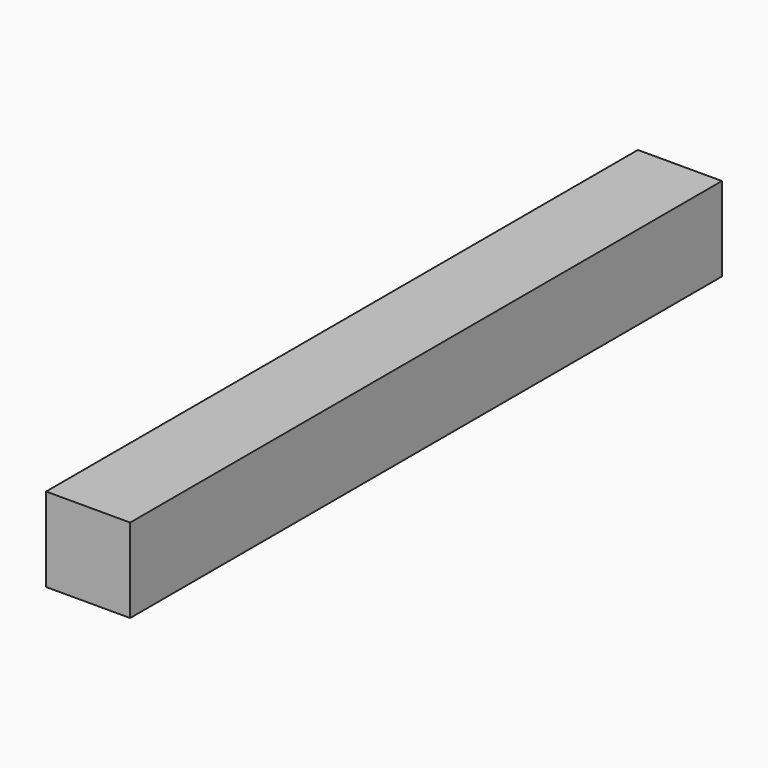
from build123d import *

# Parameters (mm, degrees)
F0_W      = 63.5
F0_H      = 63.5
F1_DEPTH  = 1498.6
F2_DEPTH  = 1092.2
F3_DEPTH  = 203.2
F4_DEPTH  = 177.8
F5_DEPTH  = 279.4
F6_DEPTH  = 254
F7_DEPTH  = 25.4
F8_DEPTH  = 12.7
F9_DEPTH  = 12.7
F10_DEPTH = 12.7
F11_DEPTH = 38.1


with BuildPart() as f1:
    # F0 (on Front) → F1 (new body)
    with BuildSketch(Plane.XZ):
        with Locations((-132.8186606169, 36.3734573238)):
            Rectangle(F0_W, F0_H)
    extrude(amount=F1_DEPTH)

    # F2 (cut): a face of the model
    f2_faces = [f1.faces().sort_by_distance(p)[0] for p in [
        (-132.8186606169, 0, 36.3734573238),
    ]]
    extrude(f2_faces, amount=-F2_DEPTH, mode=Mode.SUBTRACT)

    # F3 (cut): a face of the model
    f3_faces = [f1.faces().sort_by_distance(p)[0] for p in [
        (-132.8186606169, -1092.2, 36.3734573238),
    ]]
    extrude(f3_faces, amount=-F3_DEPTH, mode=Mode.SUBTRACT)

    # F4 (cut): a face of the model
    f4_faces = [f1.faces().sort_by_distance(p)[0] for p in [
        (-132.8186606169, -1498.6, 36.3734573238),
    ]]
    extrude(f4_faces, amount=-F4_DEPTH, mode=Mode.SUBTRACT)

    # F5 (add): a face of the model
    f5_faces = [f1.faces().sort_by_distance(p)[0] for p in [
        (-132.8186606169, -1295.4, 36.3734573238),
    ]]
    extrude(f5_faces, amount=F5_DEPTH)

    # F6 (add): a face of the model
    f6_faces = [f1.faces().sort_by_distance(p)[0] for p in [
        (-132.8186606169, -1016, 36.3734573238),
    ]]
    extrude(f6_faces, amount=F6_DEPTH)

    # F7 (cut): a face of the model
    f7_faces = [f1.faces().sort_by_distance(p)[0] for p in [
        (-132.8186606169, -762, 36.3734573238),
    ]]
    extrude(f7_faces, amount=-F7_DEPTH, mode=Mode.SUBTRACT)

    # F8 (add): a face of the model
    f8_faces = [f1.faces().sort_by_distance(p)[0] for p in [
        (-132.8186606169, -787.4, 36.3734573238),
    ]]
    extrude(f8_faces, amount=F8_DEPTH)

    # F9 (cut): a face of the model
    f9_faces = [f1.faces().sort_by_distance(p)[0] for p in [
        (-132.8186606169, -774.7, 36.3734573238),
    ]]
    extrude(f9_faces, amount=-F9_DEPTH, mode=Mode.SUBTRACT)

    # F10 (cut): a face of the model
    f10_faces = [f1.faces().sort_by_distance(p)[0] for p in [
        (-132.8186606169, -787.4, 36.3734573238),
    ]]
    extrude(f10_faces, amount=-F10_DEPTH, mode=Mode.SUBTRACT)

    # F11 (add): a face of the model
    f11_faces = [f1.faces().sort_by_distance(p)[0] for p in [
        (-132.8186606169, -1320.8, 36.3734573238),
    ]]
    extrude(f11_faces, amount=F11_DEPTH)


solid = f1.part
